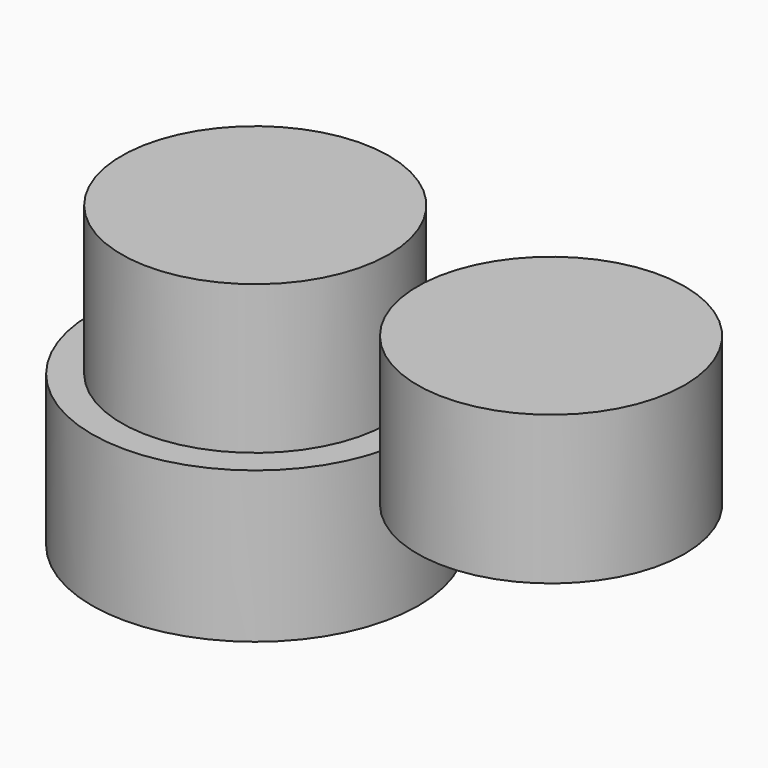
from build123d import *

# Parameters (mm, degrees)
F0_R     = 27.5
F1_DEPTH = 25.4
F2_R     = 22.5
F3_DEPTH = 25
F4_R     = 22.5
F5_DEPTH = 25


with BuildPart() as f1:
    # F0 (on Top) → F1 (new body)
    with BuildSketch(Plane.XY):
        with Locations((28.569078, 29.161185)):
            Circle(F0_R)
    extrude(amount=F1_DEPTH)

    # F2 (on face) → F3 (join)
    with BuildSketch(Plane.XY.offset(25.4)):
        with Locations((28.569078, 29.161185)):
            Circle(F2_R)
    extrude(amount=F3_DEPTH)


with BuildPart() as f5:
    # F4 (on face) → F5 (new body)
    with BuildSketch(Plane.XY.offset(25.4)):
        with Locations((82.154609, 24.424344)):
            Circle(F4_R)
    extrude(amount=F5_DEPTH)


solid = Compound([f1.part, f5.part])
